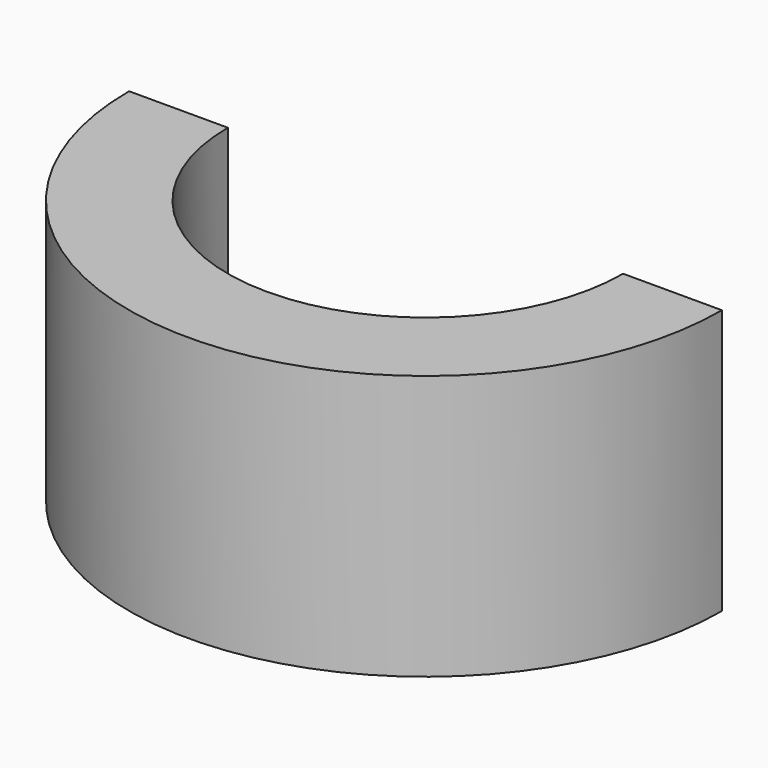
from build123d import *

# Parameters (mm, degrees)
F0_W     = 2.54
F0_H     = 3.81
F0_W_2   = 1.27
F0_H_2   = 1.27
F1_ANGLE = 180


with BuildPart() as f1:
    # F0 (on Front) → F1 (revolve)
    with BuildSketch(Plane.XZ):
        Polygon((0, 0), (4.572, 0), (4.572, 2.54), (2.286, 2.54), (2.286, 8.128), (2.54, 8.128), (6.35, 8.128), (6.35, 10.668), (2.54, 10.668), (2.54, 13.208), (0, 13.208), (0, 10.668), align=None)
        with Locations((1.27, 15.113)):
            Rectangle(F0_W, F0_H)
        Polygon((5.08, 13.208), (2.54, 13.208), (2.54, 10.668), (6.35, 10.668), (6.35, 11.938), (5.08, 11.938), align=None)
        Polygon((2.54, 17.018), (2.54, 13.208), (5.08, 13.208), (6.35, 13.208), (6.35, 17.018), align=None)
        with Locations((5.715, 12.573)):
            Rectangle(F0_W_2, F0_H_2)
    revolve(axis=Axis((19.05, 0, 2.172631), (0, 0, 1)), revolution_arc=F1_ANGLE)


solid = f1.part
